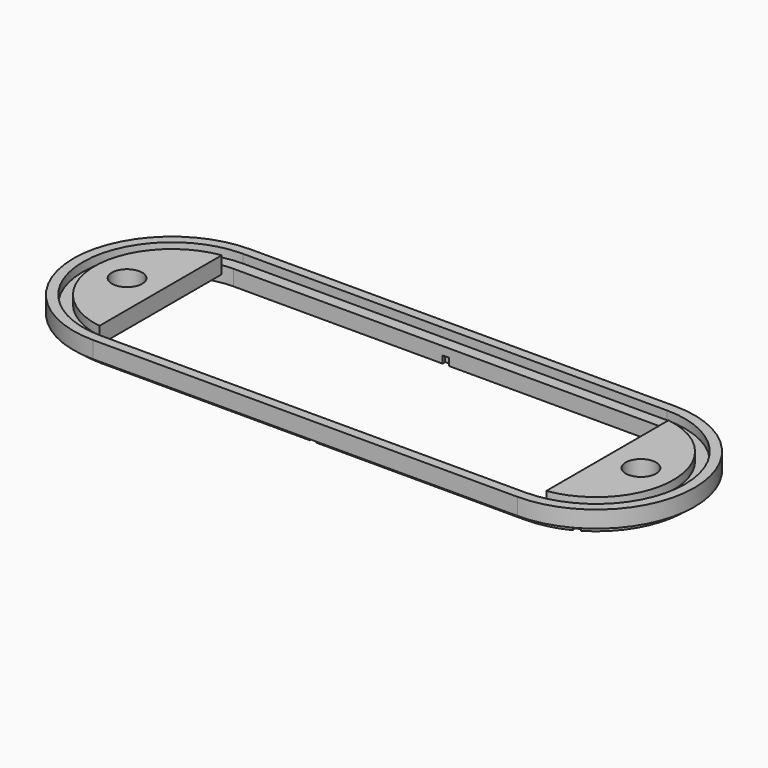
from build123d import *

# Parameters (mm, degrees)
PAD_DEPTH       = 1.15
SKETCH001_W     = 1
SKETCH001_H     = 0.51
SKETCH001_W_2   = 0.51
SKETCH001_H_2   = 1
POCKET_DEPTH    = 1.15
PAD001_DEPTH    = 2.635
SKETCH003_R     = 2.375
PAD002_DEPTH    = 2.635
POCKET001_DEPTH = 1.35


with BuildPart() as part:
    # Sketch → Pad (new body)
    with BuildSketch(Plane.XY):
        with BuildLine():
            Line((-33.24, 13.9), (33.24, 13.9))
            ThreePointArc((33.24, -13.9), (47.14, 0), (33.24, 13.9))
            Line((-33.24, -13.9), (33.24, -13.9))
            ThreePointArc((-33.24, 13.9), (-47.14, 0), (-33.24, -13.9))
        make_face()
        with BuildLine():
            Line((-33.24, 12.1), (33.24, 12.1))
            ThreePointArc((33.24, -12.1), (45.34, 0), (33.24, 12.1))
            Line((-33.24, -12.1), (33.24, -12.1))
            ThreePointArc((-33.24, 12.1), (-45.34, 0), (-33.24, -12.1))
        make_face(mode=Mode.SUBTRACT)
    extrude(amount=PAD_DEPTH)

    # Sketch001 (on Face9 of Pad) → Pocket (cut)
    with BuildSketch(Plane(origin=(0, 0, 0), x_dir=(1, 0, 0), z_dir=(0, 0, -1))):
        with Locations((0, 12.355)):
            Rectangle(SKETCH001_W, SKETCH001_H)
        with Locations((0, 13.645)):
            Rectangle(SKETCH001_W, SKETCH001_H)
        with Locations((0, -12.355)):
            Rectangle(SKETCH001_W, SKETCH001_H)
        with Locations((0, -13.645)):
            Rectangle(SKETCH001_W, SKETCH001_H)
        with Locations((45.584665, 0)):
            Rectangle(SKETCH001_W_2, SKETCH001_H_2)
        with Locations((46.885, 0)):
            Rectangle(SKETCH001_W_2, SKETCH001_H_2)
        with Locations((-45.584665, 0)):
            Rectangle(SKETCH001_W_2, SKETCH001_H_2)
        with Locations((-46.885, 0)):
            Rectangle(SKETCH001_W_2, SKETCH001_H_2)
        Polygon((39.538496, 10.331454), (38.663876, 10.816264), (38.911129, 11.26232), (39.785749, 10.777511), align=None)
        Polygon((40.416164, 11.914809), (39.541544, 12.399619), (39.294291, 11.953563), (40.168911, 11.468753), align=None)
        Polygon((38.663876, -10.816264), (39.538496, -10.331454), (39.785749, -10.777511), (38.911129, -11.26232), align=None)
        Polygon((39.541544, -12.399619), (40.416164, -11.914809), (40.168911, -11.468753), (39.294291, -11.953563), align=None)
        Polygon((-39.538496, 10.331454), (-38.663876, 10.816264), (-38.911129, 11.26232), (-39.785749, 10.777511), align=None)
        Polygon((-40.416164, 11.914809), (-39.541544, 12.399619), (-39.294291, 11.953563), (-40.168911, 11.468753), align=None)
        Polygon((-39.541544, -12.399619), (-40.416164, -11.914809), (-40.168911, -11.468753), (-39.294291, -11.953563), align=None)
        Polygon((-38.663876, -10.816264), (-39.538496, -10.331454), (-39.785749, -10.777511), (-38.911129, -11.26232), align=None)
    extrude(amount=-POCKET_DEPTH, mode=Mode.SUBTRACT)

    # Sketch002 (on Face4 of Pocket) → Pad001 (join)
    with BuildSketch(Plane.XY.offset(1.15)):
        with BuildLine():
            Line((-33.24, 15.4), (33.24, 15.4))
            ThreePointArc((33.24, -15.4), (48.64, 0), (33.24, 15.4))
            Line((-33.24, -15.4), (33.24, -15.4))
            ThreePointArc((-33.24, 15.4), (-48.64, 0), (-33.24, -15.4))
        make_face()
        with BuildLine():
            ThreePointArc((-33.24, 12.1), (-45.34, 0), (-33.24, -12.1))
            Line((-33.24, -12.1), (33.24, -12.1))
            ThreePointArc((33.24, -12.1), (45.34, 0), (33.24, 12.1))
            Line((33.24, 12.1), (-33.24, 12.1))
        make_face(mode=Mode.SUBTRACT)
    extrude(amount=PAD001_DEPTH)

    # Sketch003 (on Face4 of Pocket) → Pad002 (join)
    with BuildSketch(Plane.XY.offset(1.15)):
        with BuildLine():
            ThreePointArc((-35, 11.971316), (-45.34, 0), (-35, -11.971316))
            Line((-35, 11.971316), (-35, -11.971316))
        make_face()
        with Locations((-40.25, 0)):
            Circle(SKETCH003_R, mode=Mode.SUBTRACT)
        with BuildLine():
            Line((35, -11.971316), (35, 11.971316))
            ThreePointArc((35, -11.971316), (45.34, 0), (35, 11.971316))
        make_face()
        with Locations((40.25, 0)):
            Circle(SKETCH003_R, mode=Mode.SUBTRACT)
    extrude(amount=PAD002_DEPTH)

    # Sketch004 (on Face95 of Pad002) → Pocket001 (cut)
    with BuildSketch(Plane.XY.offset(3.785)):
        with BuildLine():
            ThreePointArc((-33.24, 13.9), (-47.14, 0), (-33.24, -13.9))
            Line((-33.24, -13.9), (33.24, -13.9))
            ThreePointArc((33.24, -13.9), (47.14, 0), (33.24, 13.9))
            Line((33.24, 13.9), (-33.24, 13.9))
        make_face()
        with BuildLine():
            ThreePointArc((-33.24, 12.1), (-45.34, 0), (-33.24, -12.1))
            Line((-33.24, -12.1), (33.24, -12.1))
            ThreePointArc((33.24, -12.1), (45.34, 0), (33.24, 12.1))
            Line((-33.24, 12.1), (33.24, 12.1))
        make_face(mode=Mode.SUBTRACT)
    extrude(amount=-POCKET001_DEPTH, mode=Mode.SUBTRACT)


solid = part.part
